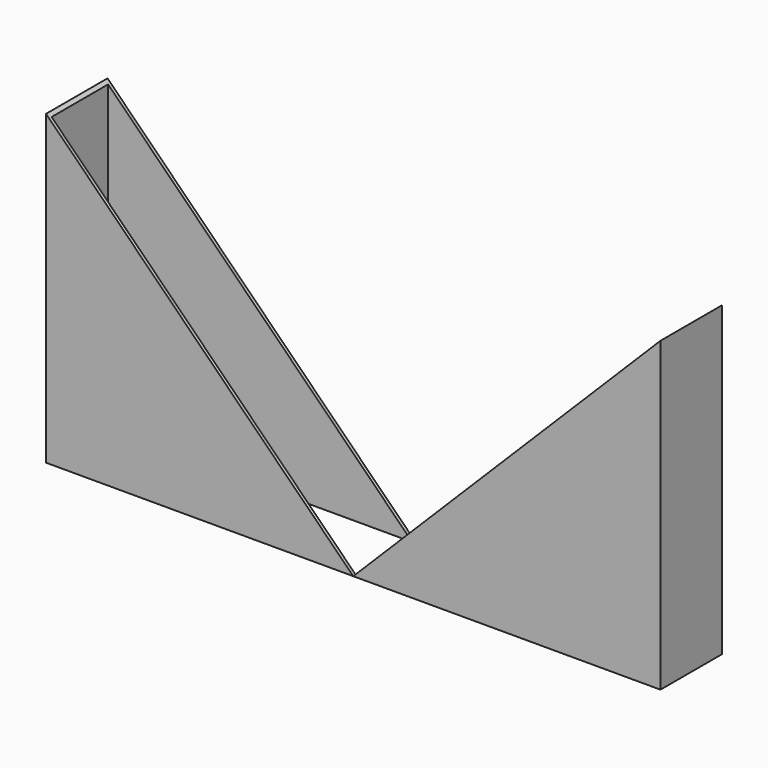
from build123d import *

# Parameters (mm, degrees)
F0_W     = 101.6
F0_H     = 12.7
F1_DEPTH = 50.8
F2_T     = -0.508
F4_DEPTH = 13.208


with BuildPart() as f1:
    # F0 (on Top) → F1 (new body)
    with BuildSketch(Plane.XY):
        Rectangle(F0_W, F0_H)
    extrude(amount=F1_DEPTH)

    # F2
    f2_openings = [f1.faces().sort_by_distance(p)[0] for p in [
        (0, 0, 50.8),
        (0, 0, 0),
    ]]
    offset(amount=F2_T, openings=f2_openings)

    # F3 (on face) → F4 (cut)
    with BuildSketch(Plane.XZ.offset(6.35)):
        Polygon((-50.8, 50.8), (0, 0), (50.8, 50.8), align=None)
    extrude(amount=-F4_DEPTH, mode=Mode.SUBTRACT)


solid = f1.part
